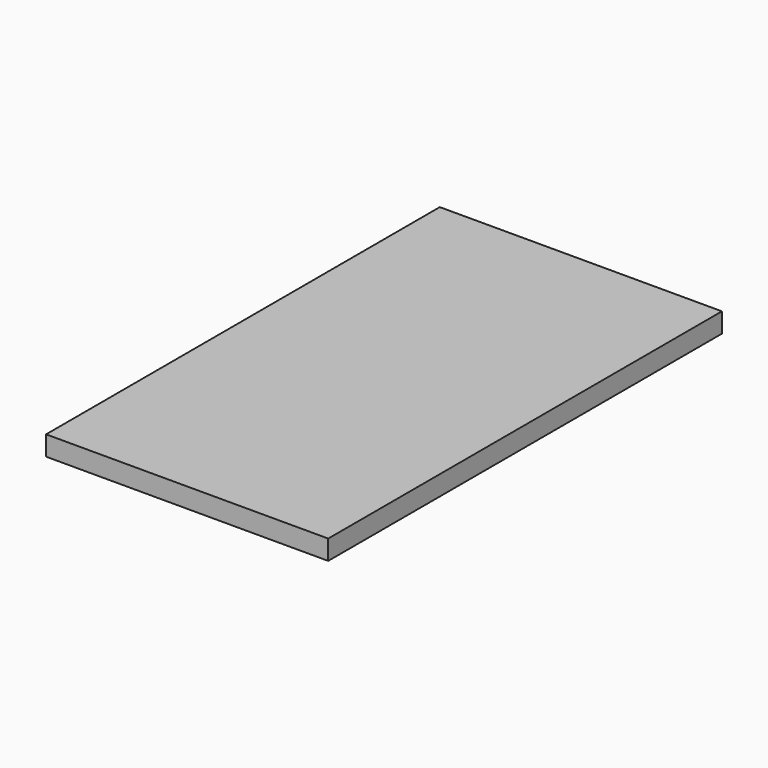
from build123d import *

# Parameters (mm, degrees)
F0_W     = 241.3
F0_H     = 444.5
F0_H_2   = 15.875
F0_W_2   = 15.875
F1_DEPTH = 19.05


with BuildPart() as f1:
    # F0 (on Top) → F1 (new body)
    with BuildSketch(Plane.XY):
        with Locations((-136.525, -238.125)):
            Rectangle(F0_W, F0_H)
        with Locations((-136.525, -7.9375)):
            Rectangle(F0_W, F0_H_2)
        with Locations((-265.1125, -238.125)):
            Rectangle(F0_W_2, F0_H)
        with Locations((-136.525, -468.3125)):
            Rectangle(F0_W, F0_H_2)
        with Locations((-7.9375, -238.125)):
            Rectangle(F0_W_2, F0_H)
        with Locations((-265.1125, -468.3125)):
            Rectangle(F0_W_2, F0_H_2)
        with Locations((-7.9375, -468.3125)):
            Rectangle(F0_W_2, F0_H_2)
        with Locations((-7.9375, -7.9375)):
            Rectangle(F0_W_2, F0_H_2)
        with Locations((-265.1125, -7.9375)):
            Rectangle(F0_W_2, F0_H_2)
    extrude(amount=F1_DEPTH)


solid = f1.part
